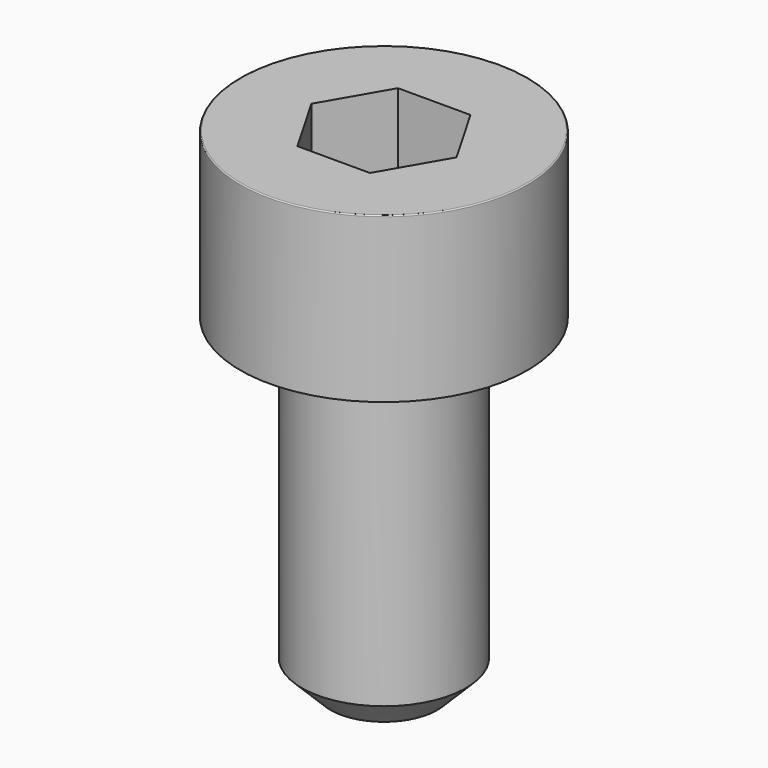
from build123d import *

# Parameters (mm, degrees)
POCKET_DEPTH = 3.06


with BuildPart() as part:
    # Sketch → Revolve (revolve)
    with BuildSketch(Plane.YZ):
        with BuildLine():
            Line((1.999, 0), (3.5, 0))
            Line((3.5, 0), (3.5, 3.97229))
            ThreePointArc((3.5, 3.97229), (3.491884, 3.991884), (3.47229, 4))
            Line((3.47229, 4), (0, 4))
            Line((0, -8), (0, 4))
            Line((1.3, -8), (0, -8))
            Line((2, -7.3), (1.3, -8))
            Line((2, -0.2), (2, -7.3))
            Line((1.999, 0), (2, -0.2))
        make_face()
    revolve(axis=Axis((0, 0, 0), (0, 0, 1)))

    # Sketch001 → Pocket (cut)
    with BuildSketch(Plane.XY.offset(4)):
        Polygon((1.766692, 0), (0.883346, 1.53), (-0.883346, 1.53), (-1.766692, 0), (-0.883346, -1.53), (0.883346, -1.53), align=None)
    extrude(amount=-POCKET_DEPTH, mode=Mode.SUBTRACT)


solid = part.part
